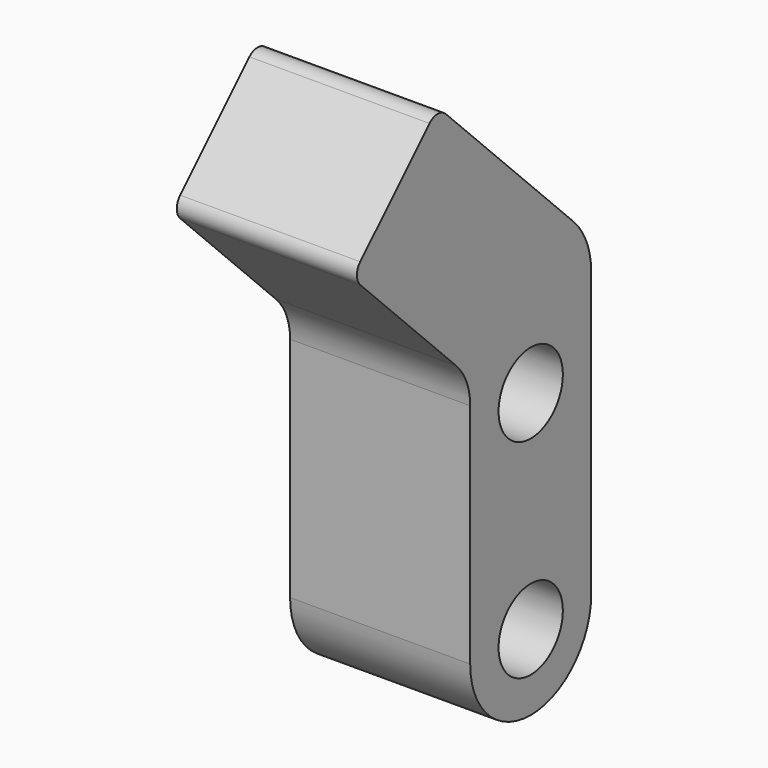
from build123d import *

# Parameters (mm, degrees)
F0_R     = 4.25
F1_DEPTH = 19.05


with BuildPart() as f1:
    # F0 (on Right) → F1 (new body)
    with BuildSketch(Plane.YZ):
        with BuildLine():
            Line((-8, 24.056035), (-8, 0))
            ThreePointArc((-8, 0), (0, -8), (8, 0))
            Line((8, 0), (8, 30))
            ThreePointArc((8, 30), (7.391036, 33.061467), (5.656854, 35.656854))
            Line((5.656854, 35.656854), (-11.226027, 52.539736))
            ThreePointArc((-11.226027, 52.539736), (-12.303658, 52.986105), (-13.381289, 52.539736))
            Line((-13.381289, 52.539736), (-22.539736, 43.381289))
            ThreePointArc((-22.539736, 43.381289), (-22.986105, 42.303658), (-22.539736, 41.226027))
            Line((-22.539736, 41.226027), (-9.859872, 28.546163))
            ThreePointArc((-9.859872, 28.546163), (-8.483365, 26.486075), (-8, 24.056035))
        make_face()
        Circle(F0_R, mode=Mode.SUBTRACT)
        with Locations((0, 22)):
            Circle(F0_R, mode=Mode.SUBTRACT)
    extrude(amount=F1_DEPTH)


solid = f1.part
